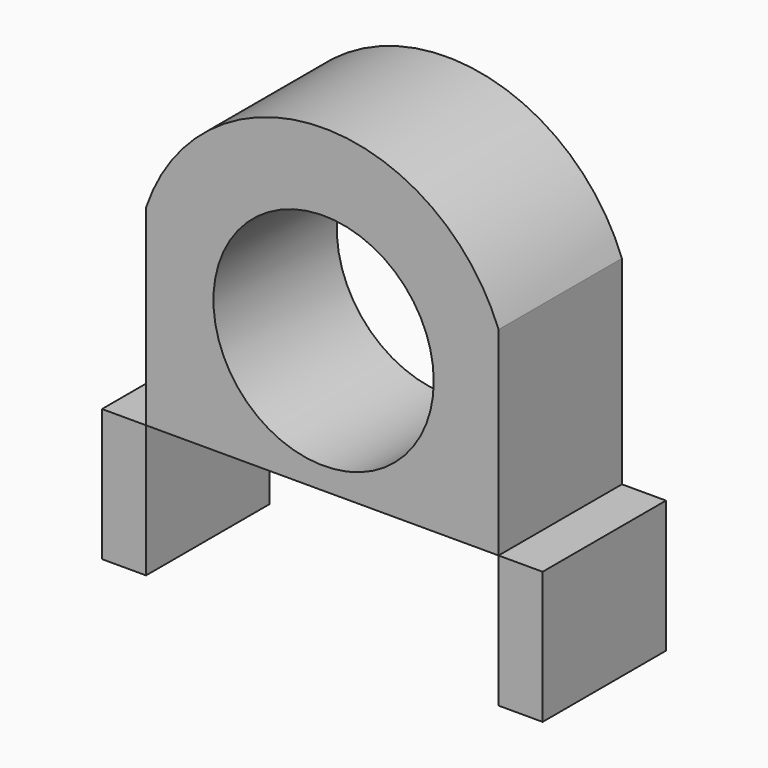
from build123d import *

# Parameters (mm, degrees)
F0_W     = 5
F0_H     = 15
F0_R     = 12.5
F1_DEPTH = 17.5


with BuildPart() as f1:
    # F0 (on Front) → F1 (new body)
    with BuildSketch(Plane.XZ):
        with Locations((-47.5, 7.5)):
            Rectangle(F0_W, F0_H)
        with BuildLine():
            Line((-45, 15), (-5, 15))
            Line((-5, 15), (-5, 37.573403))
            ThreePointArc((-5, 37.573403), (-25.285528, 51.245631), (-45, 36.762122))
            Line((-45, 36.762122), (-45, 15))
        make_face()
        with Locations((-24.854623, 30)):
            Circle(F0_R, mode=Mode.SUBTRACT)
        with Locations((-2.5, 7.5)):
            Rectangle(F0_W, F0_H)
    extrude(amount=F1_DEPTH)


solid = f1.part
